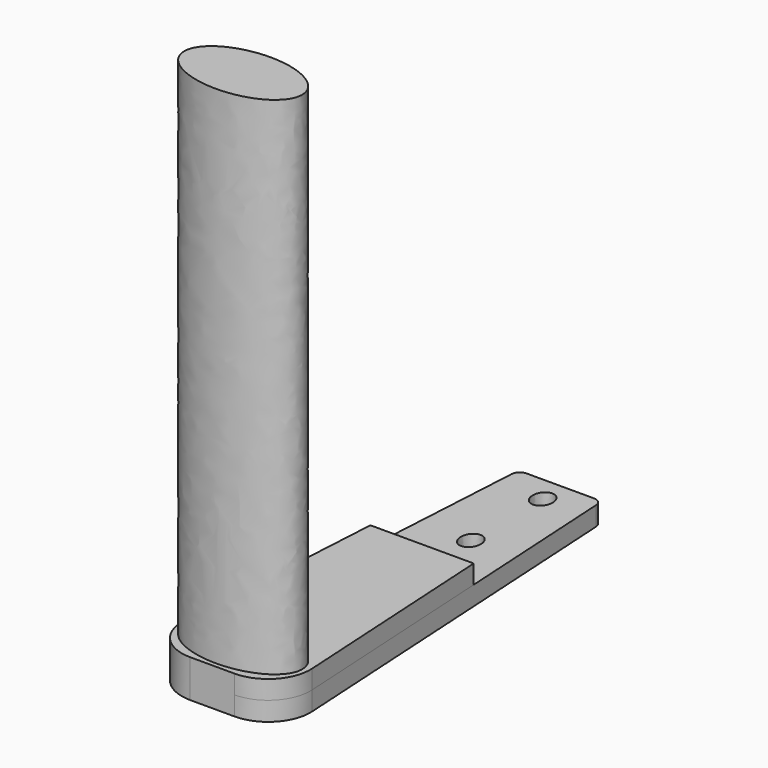
from build123d import *

# Parameters (mm, degrees)
F1_DEPTH = 4.51
F3_DEPTH = 8.96
F4_R     = 10
F5_R     = 10
F7_DEPTH = 120


with BuildPart() as f1:
    # F0 (on Top) → F1 (new body)
    with BuildSketch(Plane.XY):
        with BuildLine():
            Line((7.260583, 43.401532), (-8.743806, 43.401532))
            ThreePointArc((-8.743806, 43.401532), (-10.116636, 42.855952), (-10.740477, 41.516868))
            Line((-10.740477, 41.516868), (-16.591611, -59.776474))
            Line((-16.591611, -59.776474), (15.108389, -59.776474))
            Line((15.108389, -59.776474), (9.257255, 41.516868))
            ThreePointArc((9.257255, 41.516868), (8.633414, 42.855952), (7.260583, 43.401532))
        make_face()
        with BuildLine():
            add(Edge.make_bspline(
                [(0, 13.081532), (4.0963, 13.081532), (2.04815, 17.386532), (0, 21.691532), (-2.04815, 17.386532), (-4.0963, 13.081532), (0, 13.081532)],
                knots=[0, 0, 0, 2.094395, 2.094395, 4.18879, 4.18879, 6.283185, 6.283185, 6.283185], degree=2, weights=[1, 0.5, 1, 0.5, 1, 0.5, 1]))
        make_face(mode=Mode.SUBTRACT)
        with BuildLine():
            add(Edge.make_bspline(
                [(0, 34.391532), (4.0963, 34.391532), (2.04815, 38.696532), (0, 43.001532), (-2.04815, 38.696532), (-4.0963, 34.391532), (0, 34.391532)],
                knots=[0, 0, 0, 2.094395, 2.094395, 4.18879, 4.18879, 6.283185, 6.283185, 6.283185], degree=2, weights=[1, 0.5, 1, 0.5, 1, 0.5, 1]))
        make_face(mode=Mode.SUBTRACT)
    extrude(amount=F1_DEPTH)

    # F2 (on Top) → F3 (join)
    with BuildSketch(Plane.XY):
        Polygon((11.51603, 2.413526), (-12.999253, 2.413526), (-16.591611, -59.776474), (15.108389, -59.776474), align=None)
    extrude(amount=F3_DEPTH)

    # F4
    f4_edges = [f1.edges().sort_by_distance(p)[0] for p in [
        (15.108389, -59.776474, 4.48),
    ]]
    fillet(f4_edges, radius=F4_R)

    # F5
    f5_edges = [f1.edges().sort_by_distance(p)[0] for p in [
        (-16.591611, -59.776474, 4.48),
    ]]
    fillet(f5_edges, radius=F5_R)

    # F6 (on face) → F7 (join)
    with BuildSketch(Plane.XY.offset(8.96)):
        with BuildLine():
            add(Edge.make_bspline(
                [(-14.76866, -50.608147), (-14.76866, -64.649416), (6.23134, -57.628781), (27.23134, -50.608147), (6.23134, -43.587512), (-14.76866, -36.566878), (-14.76866, -50.608147)],
                knots=[0, 0, 0, 2.094395, 2.094395, 4.18879, 4.18879, 6.283185, 6.283185, 6.283185], degree=2, weights=[1, 0.5, 1, 0.5, 1, 0.5, 1]))
        make_face()
    extrude(amount=F7_DEPTH)


solid = f1.part
